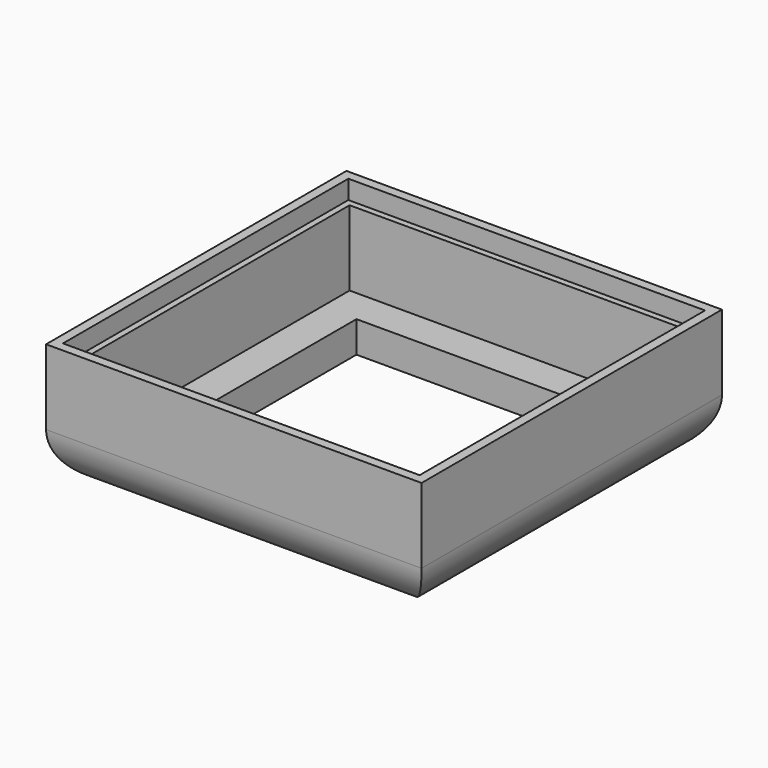
from build123d import *

# Parameters (mm, degrees)
F0_W     = 60
F0_H     = 60
F0_W_2   = 55
F0_H_2   = 55
F1_DEPTH = 15
F2_W     = 60
F2_H     = 60
F2_W_2   = 55
F2_H_2   = 55
F3_DEPTH = 5
F4_W     = 57
F4_H     = 57
F4_W_2   = 55
F4_H_2   = 55
F5_DEPTH = 3
F6_R     = 8
F7_W     = 44
F7_H     = 44
F8_DEPTH = 5


with BuildPart() as f1:
    # F0 (on Top) → F1 (new body)
    with BuildSketch(Plane.XY):
        Rectangle(F0_W, F0_H)
        Rectangle(F0_W_2, F0_H_2, mode=Mode.SUBTRACT)
    extrude(amount=F1_DEPTH)

    # F2 (on face) → F3 (join)
    with BuildSketch(Plane(origin=(0, 0, 0), x_dir=(1, 0, 0), z_dir=(0, 0, -1))):
        Rectangle(F2_W, F2_H)
        Rectangle(F2_W_2, F2_H_2, mode=Mode.SUBTRACT)
        Rectangle(F2_W_2, F2_H_2)
    extrude(amount=F3_DEPTH)

    # F4 (on face) → F5 (cut)
    with BuildSketch(Plane.XY.offset(15)):
        Rectangle(F4_W, F4_H)
        Rectangle(F4_W_2, F4_H_2, mode=Mode.SUBTRACT)
    extrude(amount=-F5_DEPTH, mode=Mode.SUBTRACT)

    # F6
    f6_edges = [f1.edges().sort_by_distance(p)[0] for p in [
        (-30, 0, -5),
        (30, 0, -5),
        (0, 30, -5),
        (0, -30, -5),
    ]]
    fillet(f6_edges, radius=F6_R)

    # F7 (on face) → F8 (cut)
    with BuildSketch(Plane(origin=(0, 0, -5), x_dir=(1, 0, 0), z_dir=(0, 0, -1))):
        Rectangle(F7_W, F7_H)
    extrude(amount=-F8_DEPTH, mode=Mode.SUBTRACT)


solid = f1.part
